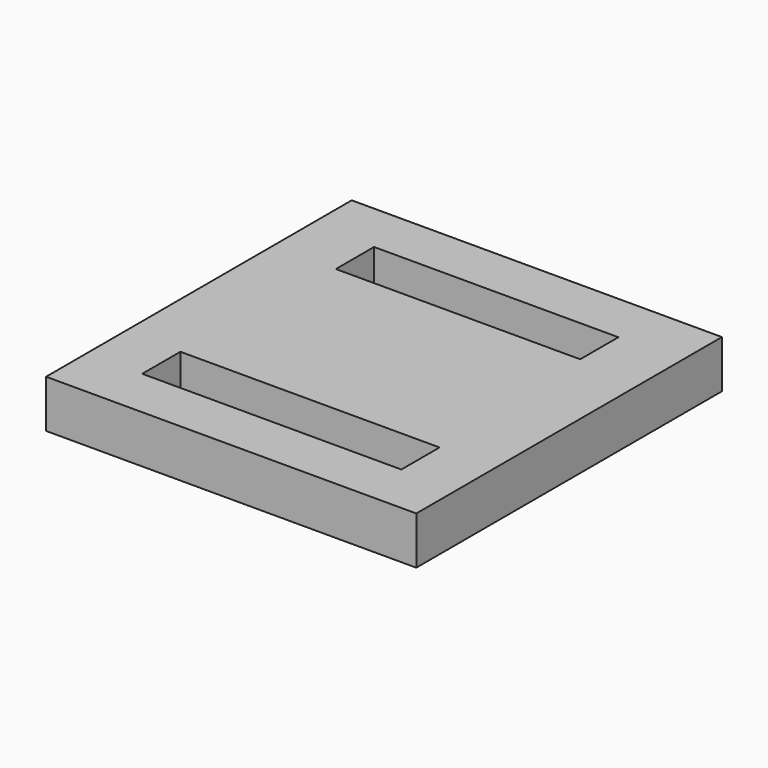
from build123d import *

# Parameters (mm, degrees)
F0_W     = 77.519374
F0_H     = 80
F0_W_2   = 54.263564
F0_H_2   = 10
F0_W_3   = 51.16279
F1_DEPTH = 10


with BuildPart() as f1:
    # F0 (on Top) → F1 (new body)
    with BuildSketch(Plane.XY):
        Rectangle(F0_W, F0_H)
        with Locations((0, -24.375)):
            Rectangle(F0_W_2, F0_H_2, mode=Mode.SUBTRACT)
        with Locations((0, 24.375)):
            Rectangle(F0_W_3, F0_H_2, mode=Mode.SUBTRACT)
    extrude(amount=F1_DEPTH)


solid = f1.part
